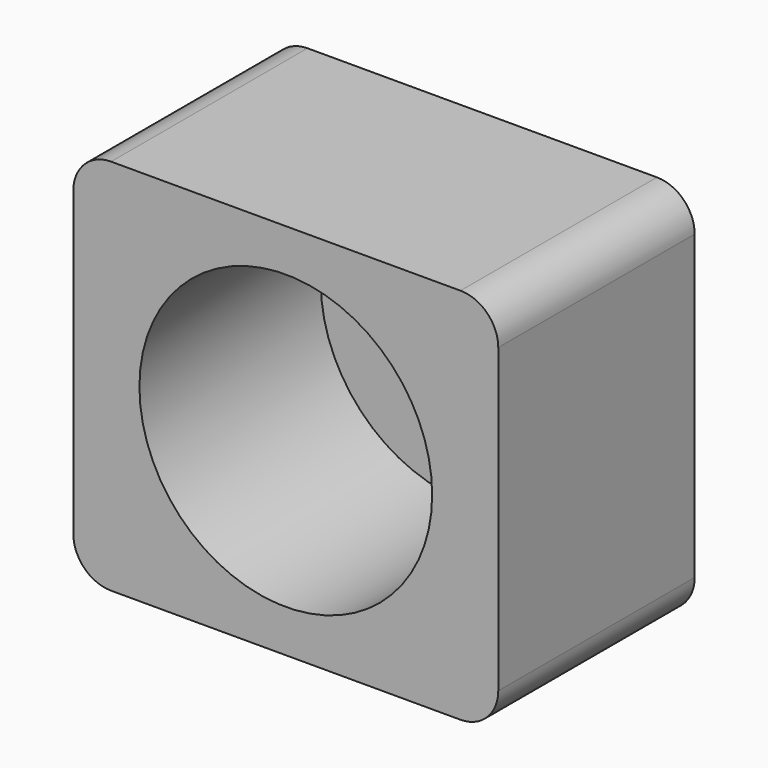
from build123d import *

# Parameters (mm, degrees)
F0_W     = 22.5
F0_H     = 13
F1_DEPTH = 20
F2_R     = 7.75
F3_DEPTH = 12
F4_R     = 2


with BuildPart() as f1:
    # F0 (on Top) → F1 (new body)
    with BuildSketch(Plane.XY):
        with Locations((11.25, 6.5)):
            Rectangle(F0_W, F0_H)
    extrude(amount=F1_DEPTH)

    # F2 (on face) → F3 (cut)
    with BuildSketch(Plane.XZ):
        with Locations((11.25, 10)):
            Circle(F2_R)
    extrude(amount=-F3_DEPTH, mode=Mode.SUBTRACT)

    # F4
    f4_edges = [f1.edges().sort_by_distance(p)[0] for p in [
        (22.5, 6.5, 20),
        (22.5, 6.5, 0),
        (0, 6.5, 20),
        (0, 6.5, 0),
    ]]
    fillet(f4_edges, radius=F4_R)


solid = f1.part
